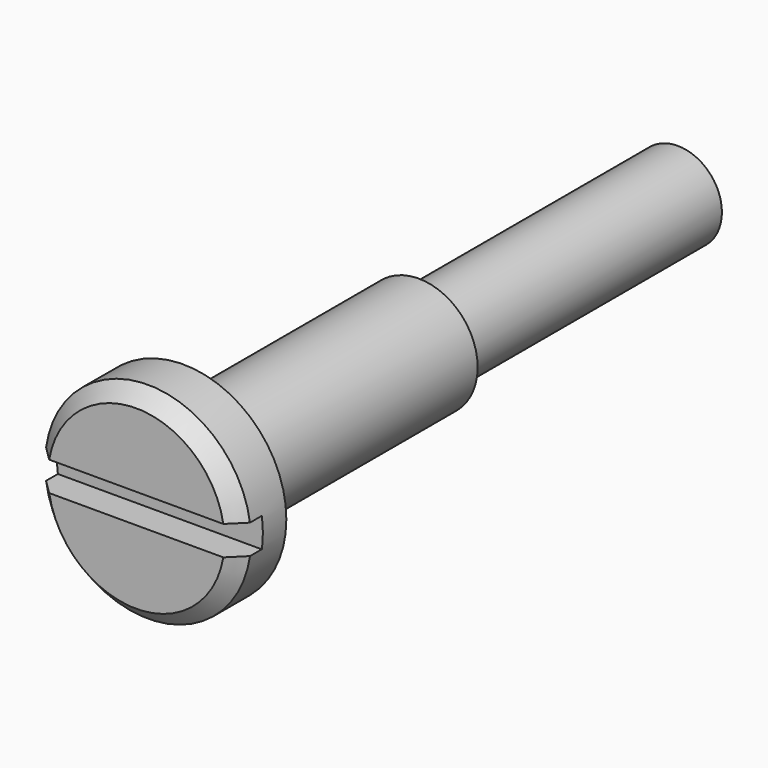
from build123d import *

# Parameters (mm, degrees)
F0_R          = 3
F1_DEPTH      = 22
F1_DEPTH_BACK = 24
F0_R_2        = 4
F2_DEPTH      = 24
F3_START      = 20
F0_R_3        = 7
F3_DEPTH      = 4
F5_START      = 22
F4_W          = 30
F4_H          = 2
F5_DEPTH      = 3
F6_SIZE       = 1


with BuildPart() as f1:
    # F0 (on Front) → F1 (new body, two sides)
    with BuildSketch(Plane.XZ) as f1_sk:
        Circle(F0_R)
    extrude(amount=-F1_DEPTH)
    extrude(f1_sk.sketch, amount=F1_DEPTH_BACK)

    # F0 (on Front) → F2 (join)
    with BuildSketch(Plane.XZ):
        Circle(F0_R_2)
        Circle(F0_R, mode=Mode.SUBTRACT)
    extrude(amount=F2_DEPTH)

    # F0 (on Front) → F3 (join)
    with BuildSketch(Plane.XZ.offset(F3_START)):
        Circle(F0_R_3)
        Circle(F0_R_2, mode=Mode.SUBTRACT)
    extrude(amount=F3_DEPTH)

    # F4 (on Front) → F5 (cut)
    with BuildSketch(Plane.XZ.offset(F5_START)):
        Rectangle(F4_W, F4_H)
    extrude(amount=F5_DEPTH, mode=Mode.SUBTRACT)

    # F6
    f6_edges = [f1.edges().sort_by_distance(p)[0] for p in [
        (0, -24, 7),
        (0, -24, -7),
    ]]
    chamfer(f6_edges, length=F6_SIZE)


solid = f1.part
